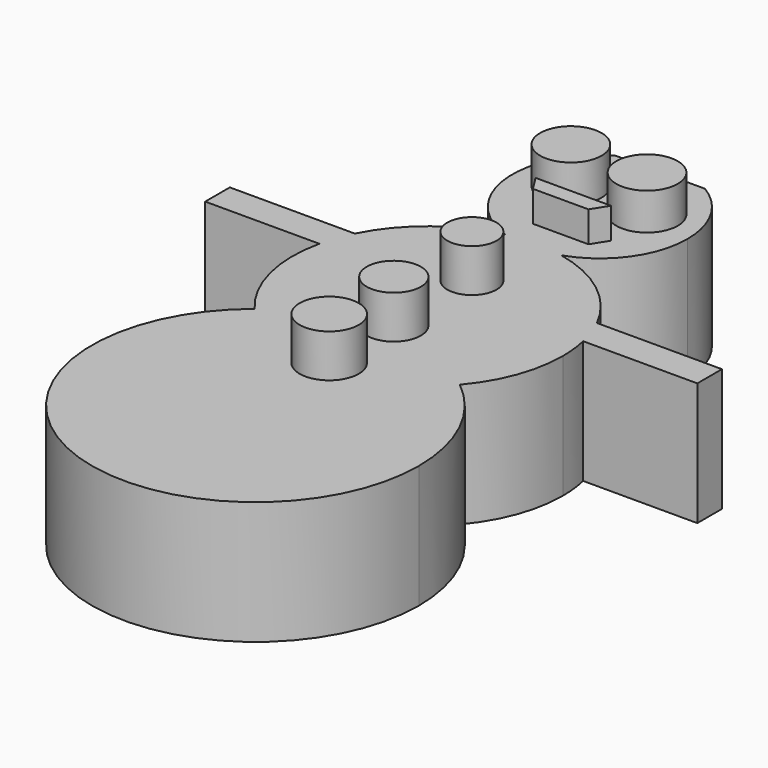
from build123d import *

# Parameters (mm, degrees)
F1_DEPTH = 25.4
F2_R     = 6.35
F3_DEPTH = 7.62
F4_R     = 5.08
F4_R_2   = 5.588
F4_R_3   = 6.096
F5_DEPTH = 8.89
F7_DEPTH = 6.35


with BuildPart() as f1:
    # F0 (on Top) → F1 (new body)
    with BuildSketch(Plane.XY):
        with BuildLine():
            ThreePointArc((-9.321827, 59.934407), (-17.965589, 42.474951), (-5.735285, 27.310292))
            ThreePointArc((-5.735285, 27.310292), (0, 27.906012), (5.735285, 27.310292))
            ThreePointArc((5.735285, 27.310292), (14.668363, 33.890537), (18.073827, 44.450004))
            ThreePointArc((18.073827, 44.450004), (15.734426, 53.34332), (9.321827, 59.934407))
            Line((9.321827, 59.934407), (-9.321827, 59.934407))
        make_face()
        with BuildLine():
            ThreePointArc((-21.180588, -18.16943), (0, -10.696695), (21.180588, -18.16943))
            ThreePointArc((21.180588, -18.16943), (26.170702, -9.687099), (27.906012, 0))
            ThreePointArc((27.906012, 0), (27.737009, 3.066572), (27.232046, 6.096))
            Line((27.232046, 6.096), (0, 6.096))
            Line((0, 6.096), (-27.232046, 6.096))
            ThreePointArc((-27.232046, 6.096), (-27.076716, -6.752552), (-21.180588, -18.16943))
        make_face()
        with BuildLine():
            ThreePointArc((-21.180588, -18.16943), (-14.566587, -74.898327), (33.753309, -44.450004))
            ThreePointArc((33.753309, -44.450004), (30.448323, -29.883417), (21.180588, -18.16943))
            ThreePointArc((21.180588, -18.16943), (0, -27.906012), (-21.180588, -18.16943))
        make_face()
        with BuildLine():
            ThreePointArc((-21.180588, -18.16943), (0, -27.906012), (21.180588, -18.16943))
            ThreePointArc((21.180588, -18.16943), (0, -10.696695), (-21.180588, -18.16943))
        make_face()
        with BuildLine():
            ThreePointArc((5.735285, 27.310292), (0, 27.906012), (-5.735285, 27.310292))
            ThreePointArc((-5.735285, 27.310292), (0, 26.376177), (5.735285, 27.310292))
        make_face()
        with BuildLine():
            Line((-50.8, 6.096), (-27.232046, 6.096))
            ThreePointArc((-27.232046, 6.096), (-26.296817, 9.339322), (-24.976841, 12.446))
            Line((-24.976841, 12.446), (-50.8, 12.446))
            Line((-50.8, 12.446), (-50.8, 6.096))
        make_face()
        with BuildLine():
            ThreePointArc((24.976841, 12.446), (26.296817, 9.339322), (27.232046, 6.096))
            Line((27.232046, 6.096), (50.8, 6.096))
            Line((50.8, 6.096), (50.8, 12.446))
            Line((50.8, 12.446), (24.976841, 12.446))
        make_face()
        with BuildLine():
            Line((0, 6.096), (27.232046, 6.096))
            ThreePointArc((27.232046, 6.096), (26.296817, 9.339322), (24.976841, 12.446))
            Line((24.976841, 12.446), (0, 12.446))
            Line((0, 12.446), (0, 6.096))
        make_face()
        with BuildLine():
            ThreePointArc((-24.976841, 12.446), (-26.296817, 9.339322), (-27.232046, 6.096))
            Line((-27.232046, 6.096), (0, 6.096))
            Line((0, 6.096), (0, 12.446))
            Line((0, 12.446), (-24.976841, 12.446))
        make_face()
        with BuildLine():
            ThreePointArc((-5.735285, 27.310292), (-17.060055, 22.083932), (-24.976841, 12.446))
            Line((-24.976841, 12.446), (0, 12.446))
            Line((0, 12.446), (24.976841, 12.446))
            ThreePointArc((24.976841, 12.446), (17.060055, 22.083932), (5.735285, 27.310292))
            ThreePointArc((5.735285, 27.310292), (0, 26.376177), (-5.735285, 27.310292))
        make_face()
        with BuildLine():
            ThreePointArc((-5.735285, 27.310292), (-17.060055, 22.083932), (-24.976841, 12.446))
            Line((-24.976841, 12.446), (0, 12.446))
            Line((0, 12.446), (24.976841, 12.446))
            ThreePointArc((24.976841, 12.446), (17.060055, 22.083932), (5.735285, 27.310292))
            ThreePointArc((5.735285, 27.310292), (0, 26.376177), (-5.735285, 27.310292))
        make_face()
    extrude(amount=F1_DEPTH)

    # F2 (on face) → F3 (join)
    with BuildSketch(Plane.XY.offset(25.4)):
        with Locations((-8.103234, 47.100332)):
            Circle(F2_R)
        with Locations((7.62, 47.0916)):
            Circle(F2_R)
    extrude(amount=F3_DEPTH)

    # F4 (on face) → F5 (join)
    with BuildSketch(Plane.XY.offset(25.4)):
        with Locations((0, 11.43)):
            Circle(F4_R)
        with Locations((0, -8.72935)):
            Circle(F4_R_2)
        with Locations((0, -25.4)):
            Circle(F4_R_3)
    extrude(amount=F5_DEPTH)

    # F6 (on face) → F7 (join)
    with BuildSketch(Plane.XY.offset(25.4)):
        Polygon((-6.761378, 36.308393), (-4.702554, 33.054311), (6.757731, 33.054311), (8.816555, 36.308393), align=None)
    extrude(amount=F7_DEPTH)


solid = f1.part
